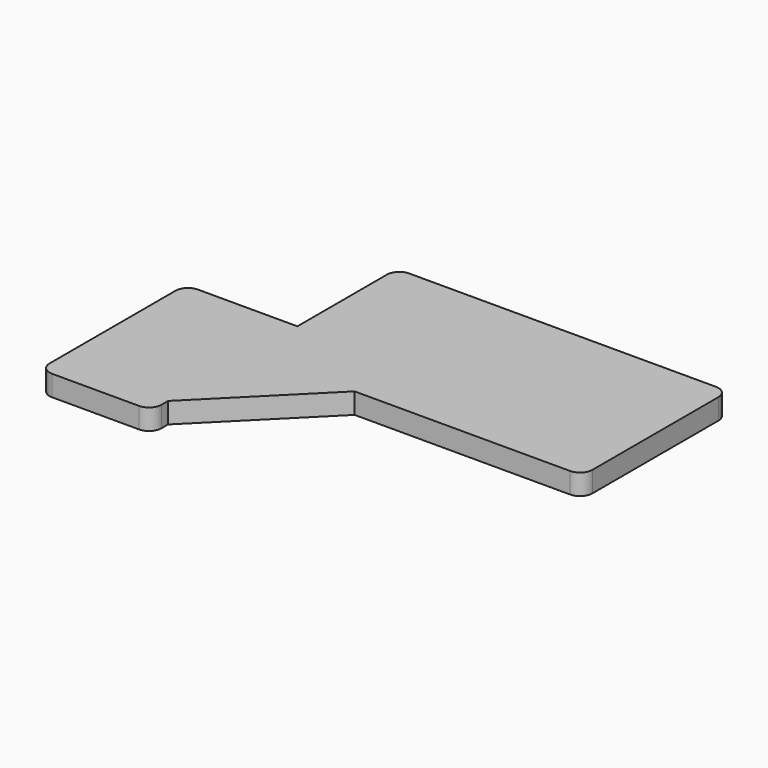
from build123d import *

# Parameters (mm, degrees)
BOX018_W        = 27
BOX018_H        = 44
BOX018_DEPTH    = 5
BOX019_W        = 80
BOX019_H        = 44
BOX019_DEPTH    = 5
CHAMFER016_SIZE = 25
FILLET004003_R  = 3


with BuildPart() as cube018:
    # Box018 → Box018 (new body)
    with BuildSketch(Plane(origin=(-27, -44, -5), x_dir=(1, 0, 0), z_dir=(0, 0, 1))):
        with Locations((13.5, 22)):
            Rectangle(BOX018_W, BOX018_H)
    extrude(amount=BOX018_DEPTH)


with BuildPart() as fillet004003:
    # Box019 → Box019 (new body)
    with BuildSketch(Plane(origin=(0, -14, -5), x_dir=(1, 0, 0), z_dir=(0, 0, 1))):
        with Locations((40, 22)):
            Rectangle(BOX019_W, BOX019_H)
    extrude(amount=BOX019_DEPTH)

    # Fusion006002011004053036004001003009006003: union Cube018
    add(cube018.part)

    # Chamfer016
    chamfer016_edges = [fillet004003.edges().sort_by_distance(p)[0] for p in [
        (0, -14, -2.5),
    ]]
    chamfer(chamfer016_edges, length=CHAMFER016_SIZE)

    # Fillet004003
    fillet004003_edges = [fillet004003.edges().sort_by_distance(p)[0] for p in [
        (80, -14, -2.5),
        (80, 30, -2.5),
        (0, 30, -2.5),
        (0, -44, -2.5),
        (-27, -44, -2.5),
        (-27, 0, -2.5),
    ]]
    fillet(fillet004003_edges, radius=FILLET004003_R)


solid = fillet004003.part
